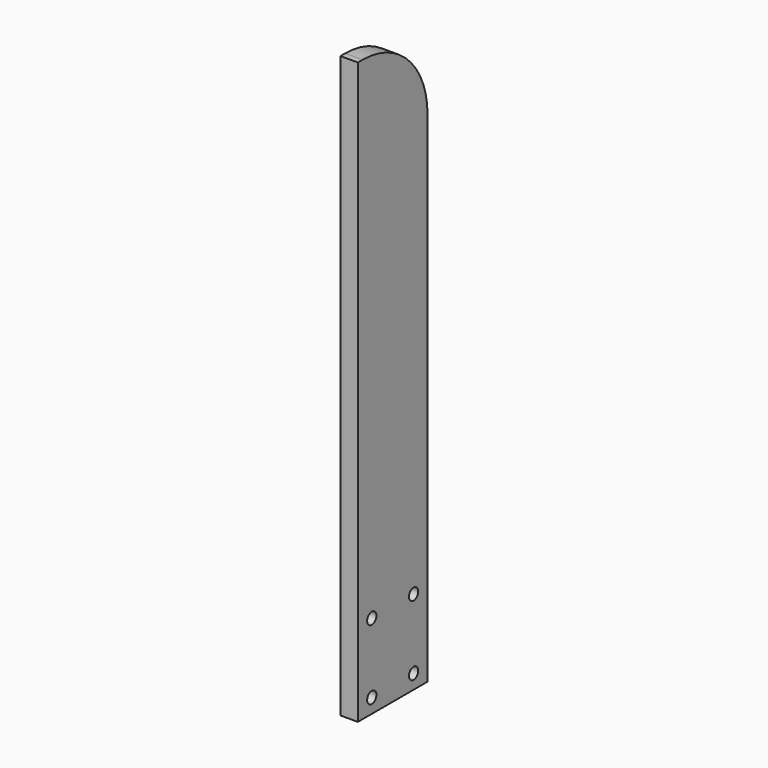
from build123d import *

# Parameters (mm, degrees)
SKETCH_R  = 2
PAD_DEPTH = 6


with BuildPart() as part:
    # Sketch → Pad (new body)
    with BuildSketch(Plane.YZ):
        with BuildLine():
            Line((0, 0), (30, 0))
            Line((30, 0), (30, 172))
            ThreePointArc((30, 172), (21.79899, 191.79899), (2, 200))
            Line((2, 200), (0, 200))
            Line((0, 200), (0, 0))
        make_face()
        with Locations((6, 29)):
            Circle(SKETCH_R, mode=Mode.SUBTRACT)
        with Locations((24, 29)):
            Circle(SKETCH_R, mode=Mode.SUBTRACT)
        with Locations((6, 5)):
            Circle(SKETCH_R, mode=Mode.SUBTRACT)
        with Locations((24, 5)):
            Circle(SKETCH_R, mode=Mode.SUBTRACT)
    extrude(amount=PAD_DEPTH)


solid = part.part
